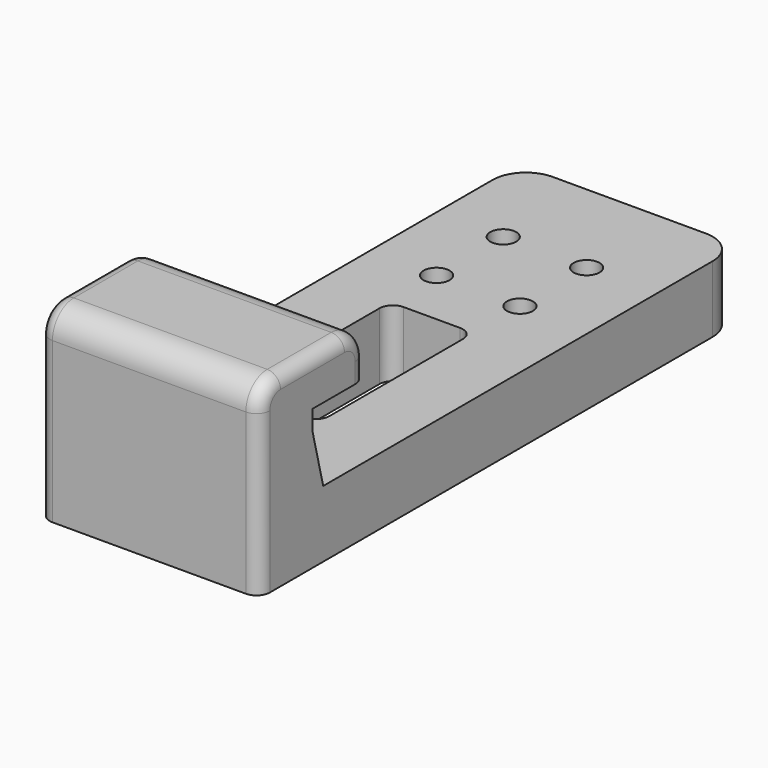
from build123d import *

# Parameters (mm, degrees)
F0_W     = 33
F0_H     = 70
F0_W_2   = 12.5
F0_H_2   = 29.0257008746
F0_R     = 1.95
F0_H_3   = 10
F1_DEPTH = 10
F2_DEPTH = 28
F3_START = 10
F3_DEPTH = 11
F4_SIZE2 = 8
F4_SIZE  = 2
F5_R     = 4
F6_R     = 5
F7_R     = 2
F8_R     = 2


with BuildPart() as f1:
    # F0 (on Top) → F1 (new body)
    with BuildSketch(Plane.XY):
        with Locations((-48.7103275061, 13.0742679536)):
            Rectangle(F0_W, F0_H)
        with Locations((-48.9603275061, -3.1253187917)):
            Rectangle(F0_W_2, F0_H_2, mode=Mode.SUBTRACT)
        with Locations((-55.2103275061, 20.0742679536)):
            Circle(F0_R, mode=Mode.SUBTRACT)
        with Locations((-55.2103275061, 32.5742679536)):
            Circle(F0_R, mode=Mode.SUBTRACT)
        with Locations((-42.7103275061, 20.0742679536)):
            Circle(F0_R, mode=Mode.SUBTRACT)
        with Locations((-42.7103275061, 32.5742679536)):
            Circle(F0_R, mode=Mode.SUBTRACT)
        with Locations((-48.7103275061, -26.9257320464)):
            Rectangle(F0_W, F0_H_3)
        with Locations((-48.7103275061, -36.9257320464)):
            Rectangle(F0_W, F0_H_3)
    extrude(amount=F1_DEPTH)

    # F0 (on Top) → F2 (join)
    with BuildSketch(Plane.XY):
        with Locations((-48.7103275061, -26.9257320464)):
            Rectangle(F0_W, F0_H_3)
        with Locations((-48.7103275061, -36.9257320464)):
            Rectangle(F0_W, F0_H_3)
    extrude(amount=F2_DEPTH)

    # F0 (on Top) → F3 (cut)
    with BuildSketch(Plane.XY.offset(F3_START)):
        with Locations((-48.7103275061, -26.9257320464)):
            Rectangle(F0_W, F0_H_3)
    extrude(amount=F3_DEPTH, mode=Mode.SUBTRACT)

    # F4
    f4_edges = [f1.edges().sort_by_distance(p)[0] for p in [
        (-48.710328, -31.925732, 10),
    ]]
    f4_side = f1.faces().sort_by_distance((-33.075718, 8.074268, 10))[0]
    chamfer(f4_edges, length=F4_SIZE, length2=F4_SIZE2, reference=f4_side)

    # F5
    f5_edges = [f1.edges().sort_by_distance(p)[0] for p in [
        (-48.710328, -21.925732, 28),
        (-48.710328, -41.925732, 28),
    ]]
    fillet(f5_edges, radius=F5_R)

    # F6
    f6_edges = [f1.edges().sort_by_distance(p)[0] for p in [
        (-65.210328, 48.074268, 5),
        (-32.210328, 48.074268, 5),
    ]]
    fillet(f6_edges, radius=F6_R)

    # F7
    f7_edges = [f1.edges().sort_by_distance(p)[0] for p in [
        (-42.710328, 11.387532, 5),
        (-55.210328, 11.387532, 5),
        (-55.210328, -17.638169, 5),
        (-42.710328, -17.638169, 5),
    ]]
    fillet(f7_edges, radius=F7_R)

    # F8
    f8_edges = [f1.edges().sort_by_distance(p)[0] for p in [
        (-65.210328, -31.925732, 28),
        (-32.210328, -31.925732, 28),
    ]]
    fillet(f8_edges, radius=F8_R)


solid = f1.part
